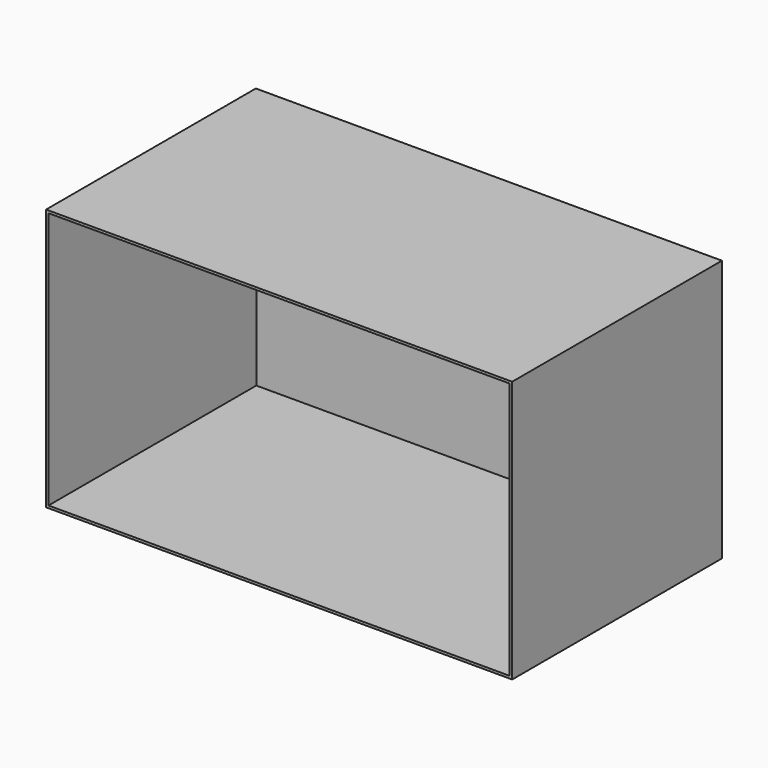
from build123d import *

# Parameters (mm, degrees)
F0_W      = 480
F0_H      = 270
F1_DEPTH  = 135
F1_FACE_W = 480
F1_FACE_H = 270
F2_DEPTH  = 135
F3_T      = -2.5


with BuildPart() as f1:
    # F0 (on Top) → F1 (new body)
    with BuildSketch(Plane.XY):
        Rectangle(F0_W, F0_H)
    extrude(amount=F1_DEPTH)

    # F1_face (on face) → F2 (join)
    with BuildSketch(Plane(origin=(0, 0, 0), x_dir=(1, 0, 0), z_dir=(0, 0, -1))):
        Rectangle(F1_FACE_W, F1_FACE_H)
    extrude(amount=F2_DEPTH)

    # F3
    f3_openings = [f1.faces().sort_by_distance(p)[0] for p in [
        (0, -135, 0),
    ]]
    offset(amount=F3_T, openings=f3_openings)


solid = f1.part
